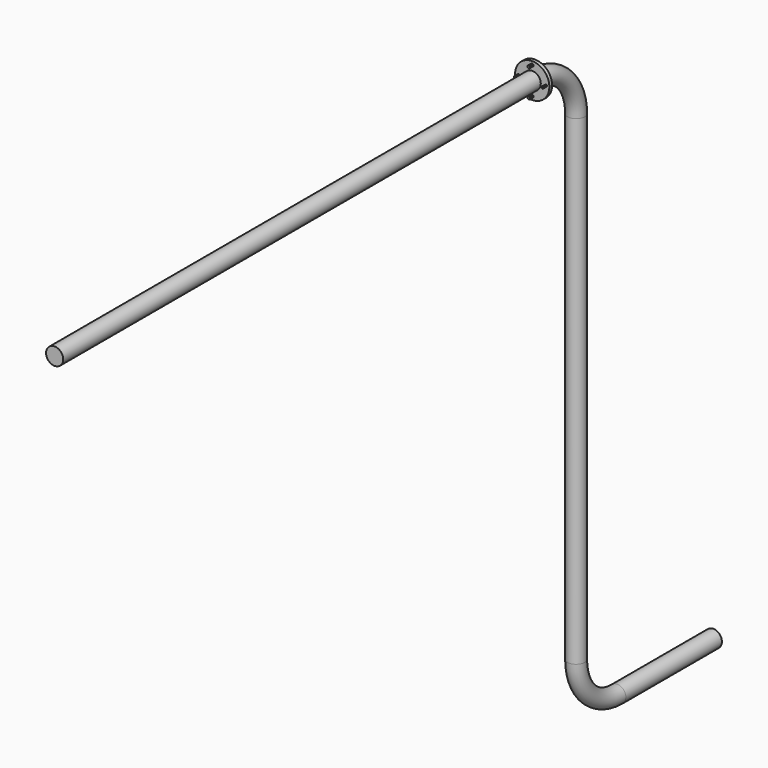
from build123d import *

# Parameters (mm, degrees)
F0_R     = 50
F4_R     = 100
F5_DEPTH = 20
F7_DEPTH = 25


with BuildPart() as f2:
    # F2: sweep along a path in F1
    with BuildLine(Plane.YZ) as f2_path:
        Line((0, 0), (3500, 0))
        ThreePointArc((3500, 0), (3712.132034, -87.867966), (3800, -300))
        Line((3800, -300), (3800, -3100))
        ThreePointArc((3800, -3100), (3887.867966, -3312.132034), (4100, -3400))
        Line((4100, -3400), (4800, -3400))
    # F0 (on Front) → F2 (sweep)
    with BuildSketch(Plane.XZ):
        Circle(F0_R)
    sweep(path=f2_path.line)

    # F4 (on offset) → F5 (join)
    with BuildSketch(Plane.XZ.offset(-3500)):
        Circle(F4_R)
    extrude(amount=F5_DEPTH)

    # F6 (on face) → F7 (join, symmetric)
    with BuildSketch(Plane.XZ.offset(-3480)):
        Polygon((6.961374, 75.554451), (7.330645, 83.805952), (0.369271, 88.251501), (-6.961374, 84.445549), (-7.330645, 76.194048), (-0.369271, 71.748499), align=None)
        Polygon((85.551329, -3.205061), (85.551329, 3.205061), (80, 6.410123), (74.448671, 3.205061), (74.448671, -3.205061), (80, -6.410123), align=None)
        Polygon((7.330645, -84.23235), (7.330645, -75.76765), (0, -71.535301), (-7.330645, -75.76765), (-7.330645, -84.23235), (0, -88.464699), align=None)
        Polygon((-79.378061, -7.846037), (-72.894163, -3.384404), (-73.516102, 4.461633), (-80.621939, 7.846037), (-87.105837, 3.384404), (-86.483898, -4.461633), align=None)
    extrude(amount=F7_DEPTH, both=True)


solid = f2.part
